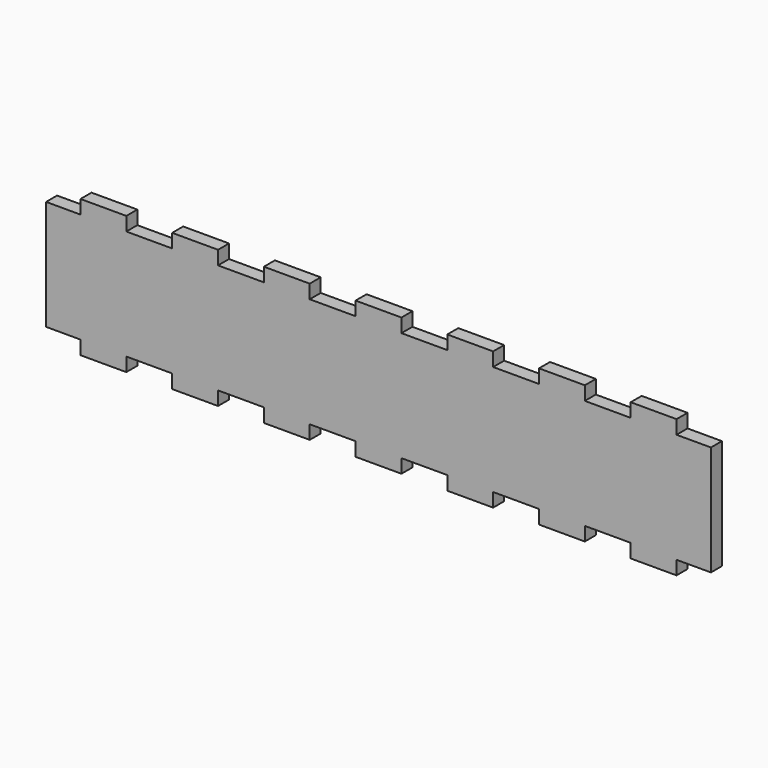
from build123d import *

# Parameters (mm, degrees)
F0_W     = 145
F0_H     = 30
F1_DEPTH = 3
F2_W     = 10
F2_H     = 3
F3_DEPTH = 25


with BuildPart() as f1:
    # F0 (on Front) → F1 (new body)
    with BuildSketch(Plane.XZ):
        Rectangle(F0_W, F0_H)
    extrude(amount=F1_DEPTH)

    # F2 (on face) → F3 (cut)
    with BuildSketch(Plane.XZ.offset(3)):
        with Locations((-70, -13.5)):
            Rectangle(F2_W, F2_H)
        with Locations((-70, 13.5)):
            Rectangle(F2_W, F2_H)
        with Locations((-50, -13.5)):
            Rectangle(F2_W, F2_H)
        with Locations((-50, 13.5)):
            Rectangle(F2_W, F2_H)
        with Locations((-30, -13.5)):
            Rectangle(F2_W, F2_H)
        with Locations((-30, 13.5)):
            Rectangle(F2_W, F2_H)
        with Locations((-10, -13.5)):
            Rectangle(F2_W, F2_H)
        with Locations((-10, 13.5)):
            Rectangle(F2_W, F2_H)
        with Locations((10, -13.5)):
            Rectangle(F2_W, F2_H)
        with Locations((10, 13.5)):
            Rectangle(F2_W, F2_H)
        with Locations((30, -13.5)):
            Rectangle(F2_W, F2_H)
        with Locations((30, 13.5)):
            Rectangle(F2_W, F2_H)
        with Locations((50, -13.5)):
            Rectangle(F2_W, F2_H)
        with Locations((50, 13.5)):
            Rectangle(F2_W, F2_H)
        with Locations((70, -13.5)):
            Rectangle(F2_W, F2_H)
        with Locations((70, 13.5)):
            Rectangle(F2_W, F2_H)
    extrude(amount=-F3_DEPTH, mode=Mode.SUBTRACT)


solid = f1.part
